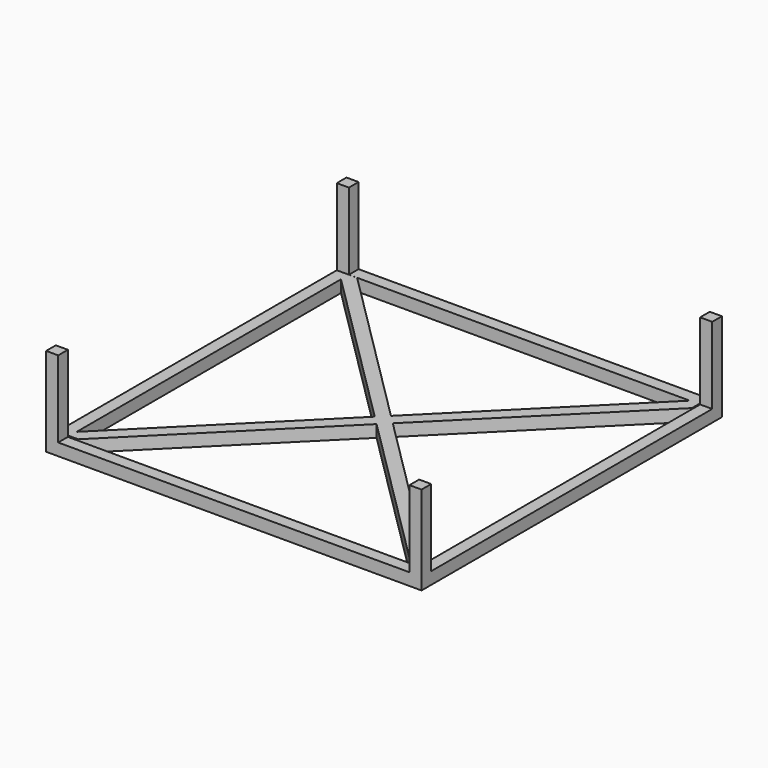
from build123d import *

# Parameters (mm, degrees)
F0_W     = 30
F0_H     = 30
F0_W_2   = 870
F0_H_2   = 870
F2_DEPTH = 30
F3_DEPTH = 30
F4_W     = 30
F4_H     = 30
F5_DEPTH = 190
F6_DEPTH = 15


with BuildPart() as f2:
    # F0 (on Top) → F2 (new body)
    with BuildSketch(Plane.XY):
        with Locations((-435.5585327744, 814.4162455201)):
            Rectangle(F0_W, F0_H)
        with Locations((14.4414672256, 814.4162455201)):
            Rectangle(F0_W_2, F0_H)
        with Locations((-435.5585327744, 364.4162455201)):
            Rectangle(F0_W, F0_H_2)
        with Locations((464.4414672256, 814.4162455201)):
            Rectangle(F0_W, F0_H)
        with Locations((-435.5585327744, -85.5837544799)):
            Rectangle(F0_W, F0_H)
        with Locations((464.4414672256, 364.4162455201)):
            Rectangle(F0_W, F0_H_2)
        with Locations((14.4414672256, -85.5837544799)):
            Rectangle(F0_W_2, F0_H)
        with Locations((464.4414672256, -85.5837544799)):
            Rectangle(F0_W, F0_H)
    extrude(amount=-F2_DEPTH)

    # F1 (on face) → F3 (join)
    with BuildSketch(Plane.XY):
        Polygon((-420.9787249565, -43.7369011343), (-420.9787249565, -65.8913552761), (-398.8242447376, -65.8913552761), (12.1761524069, 344.280398684), (-10.0305031789, 366.3827953016), align=None)
        Polygon((12.2952993787, 388.6635861224), (-10.0305031789, 366.3827953016), (12.1761524069, 344.280398684), (34.4943990212, 366.5536481084), align=None)
        Polygon((-422.4041998386, 776.8204212189), (-10.0305031789, 366.3827953016), (12.2952993787, 388.6635861224), (-399.9607563019, 799.2638349533), align=None)
        Polygon((34.4943990212, 366.5536481084), (12.1761524069, 344.280398684), (427.7071654797, -69.2997202277), (449.8616158962, -47.1452660859), align=None)
        Polygon((-422.4041998386, 799.2638349533), (-422.4041998386, 776.8204212189), (-399.9607563019, 799.2638349533), align=None)
        Polygon((424.2987632751, 799.836397171), (12.2952993787, 388.6635861224), (34.4943990212, 366.5536481084), (446.4532732964, 777.6819467545), align=None)
        Polygon((449.8616158962, -47.1452660859), (427.7071654797, -69.2997202277), (449.8616158962, -69.2997202277), align=None)
        Polygon((446.4532732964, 799.836397171), (424.2987632751, 799.836397171), (446.4532732964, 777.6819467545), align=None)
    extrude(amount=-F3_DEPTH)

    # F4 (on face) → F5 (join)
    with BuildSketch(Plane.XY):
        with Locations((464.4414672256, 814.4162455201)):
            Rectangle(F4_W, F4_H)
        with Locations((-435.5585327744, -85.5837544799)):
            Rectangle(F4_W, F4_H)
        with Locations((464.4414672256, -85.5837544799)):
            Rectangle(F4_W, F4_H)
        with Locations((-435.5585327744, 814.4162455201)):
            Rectangle(F4_W, F4_H)
    extrude(amount=F5_DEPTH)

    # F1 (on face) → F6 (join)
    with BuildSketch(Plane.XY):
        Polygon((-420.9787249565, -43.7369011343), (-420.9787249565, -65.8913552761), (-398.8242447376, -65.8913552761), (12.1761524069, 344.280398684), (-10.0305031789, 366.3827953016), align=None)
        Polygon((12.2952993787, 388.6635861224), (-10.0305031789, 366.3827953016), (12.1761524069, 344.280398684), (34.4943990212, 366.5536481084), align=None)
        Polygon((-422.4041998386, 776.8204212189), (-10.0305031789, 366.3827953016), (12.2952993787, 388.6635861224), (-399.9607563019, 799.2638349533), align=None)
        Polygon((34.4943990212, 366.5536481084), (12.1761524069, 344.280398684), (427.7071654797, -69.2997202277), (449.8616158962, -47.1452660859), align=None)
        Polygon((-422.4041998386, 799.2638349533), (-422.4041998386, 776.8204212189), (-399.9607563019, 799.2638349533), align=None)
        Polygon((424.2987632751, 799.836397171), (12.2952993787, 388.6635861224), (34.4943990212, 366.5536481084), (446.4532732964, 777.6819467545), align=None)
        Polygon((449.8616158962, -47.1452660859), (427.7071654797, -69.2997202277), (449.8616158962, -69.2997202277), align=None)
        Polygon((446.4532732964, 799.836397171), (424.2987632751, 799.836397171), (446.4532732964, 777.6819467545), align=None)
    extrude(amount=-F6_DEPTH)


solid = f2.part
